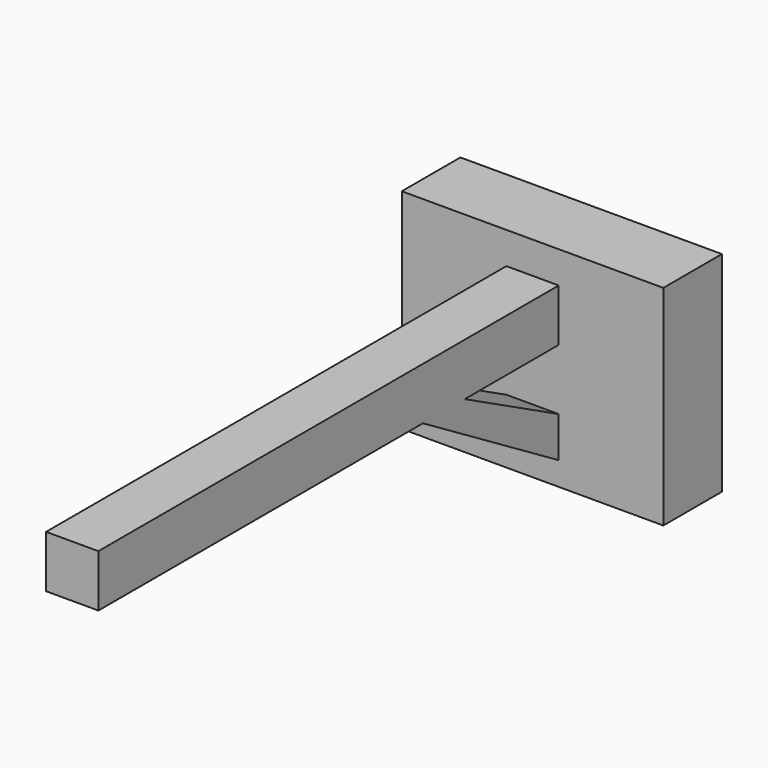
from build123d import *

# Parameters (mm, degrees)
F1_DEPTH = 7
F2_R     = 3.5
F3_DEPTH = 4
F5_DEPTH = 55
F7_DEPTH = 5


with BuildPart() as f1:
    # F0 (on Front) → F1 (new body)
    with BuildSketch(Plane.XZ):
        Polygon((12.5, 10), (0, 10), (-12.5, 10), (-12.5, 0.040646), (-12.5, -10), (12.5, -10), align=None)
    extrude(amount=F1_DEPTH)

    # F2 (on Front) → F3 (cut)
    with BuildSketch(Plane.XZ):
        Circle(F2_R)
    extrude(amount=F3_DEPTH, mode=Mode.SUBTRACT)

    # F4 (on face) → F5 (join)
    with BuildSketch(Plane.XZ.offset(7)):
        Polygon((2.5, 6.950472), (0, 6.950472), (-2.5, 6.950472), (-2.5, 1.950472), (2.5, 1.950472), align=None)
    extrude(amount=F5_DEPTH)

    # F6 (on face) → F7 (join)
    with BuildSketch(Plane.YZ.offset(2.5)):
        Polygon((-5.509801, -4.645343), (-18.229285, 1.950472), (-23.229285, 1.950472), (-5.509801, -8.645343), align=None)
    extrude(amount=-F7_DEPTH)


solid = f1.part
